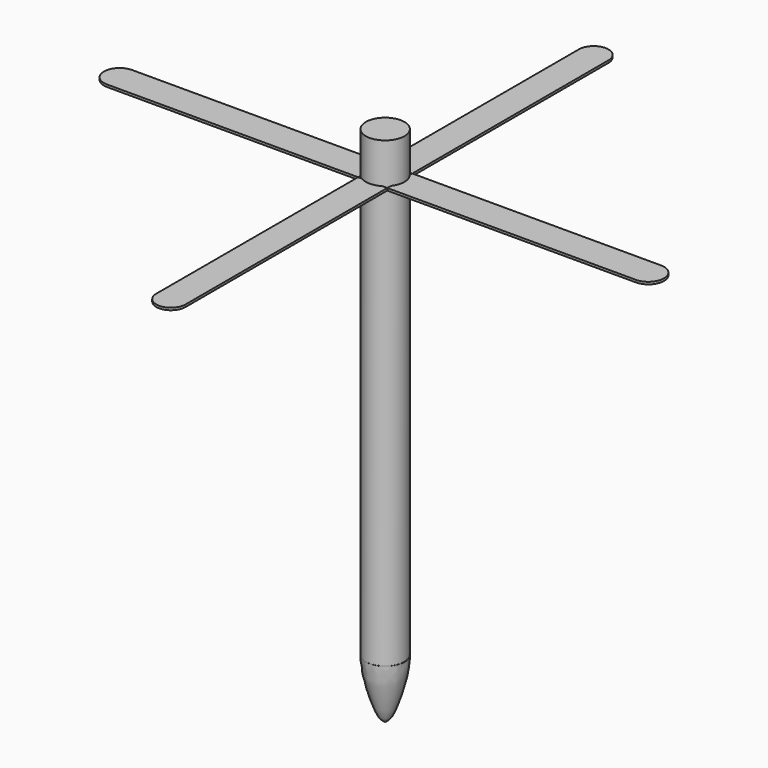
from build123d import *

# Parameters (mm, degrees)
F0_R     = 10.5891149713
F1_DEPTH = 127
F4_DEPTH = 1.27


with BuildPart() as f1:
    # F0 (on Top) → F1 (new body, symmetric)
    with BuildSketch(Plane.XY):
        Circle(F0_R)
    extrude(amount=F1_DEPTH, both=True)


with BuildPart() as f4:
    # F3 (on offset) → F4 (new body)
    with BuildSketch(Plane.XY.offset(104.902)):
        Polygon((-7.8947432339, 0), (-7.8947432339, 8.1851631403), (-145.3974545002, 8.1851631403), (-145.3974545002, -9.0071475133), (-7.654465735, -9.0071475133), (-7.654465735, 0), align=None)
        with BuildLine():
            Line((-145.3974545002, -9.0071475133), (-145.3974545002, 8.1851631403))
            ThreePointArc((-145.3974545002, 8.1851631403), (-153.993609827, -0.4109921865), (-145.3974545002, -9.0071475133))
        make_face()
    extrude(amount=-F4_DEPTH)


with BuildPart() as f4b:
    # F3 (on offset) → F4, piece 2 (new body)
    with BuildSketch(Plane.XY.offset(104.902)):
        Polygon((-0.617519021, 8.1851631403), (0, 8.1851631403), (8.3706863225, 8.1851631403), (8.3706863225, 142.7379101515), (-7.8947432339, 142.7379101515), (-7.8947432339, 8.1851631403), align=None)
        with BuildLine():
            Line((-7.8947432339, 142.7379101515), (8.3706863225, 142.7379101515))
            ThreePointArc((8.3706863225, 142.7379101515), (0.2379715443, 150.8706249297), (-7.8947432339, 142.7379101515))
        make_face()
    extrude(amount=-F4_DEPTH)


with BuildPart() as f4c:
    # F3 (on offset) → F4, piece 3 (new body)
    with BuildSketch(Plane.XY.offset(104.902)):
        Polygon((144.7799354792, 8.1851631403), (8.3706863225, 8.1851631403), (8.3706863225, 0), (8.3706863225, -9.0071475133), (144.7799354792, -9.0071475133), align=None)
        with BuildLine():
            ThreePointArc((144.7799354792, -9.0071475133), (153.376090806, -0.4109921865), (144.7799354792, 8.1851631403))
            Line((144.7799354792, 8.1851631403), (144.7799354792, -9.0071475133))
        make_face()
    extrude(amount=-F4_DEPTH)


with BuildPart() as f4d:
    # F3 (on offset) → F4, piece 4 (new body)
    with BuildSketch(Plane.XY.offset(104.902)):
        Polygon((8.3706863225, -9.0071475133), (0, -9.0071475133), (-0.617519021, -9.0071475133), (-7.654465735, -9.0071475133), (-7.654465735, -147.4282443523), (8.3706863225, -147.4282443523), align=None)
        with BuildLine():
            ThreePointArc((-7.654465735, -147.4282443523), (0.3581102937, -155.440820381), (8.3706863225, -147.4282443523))
            Line((8.3706863225, -147.4282443523), (-7.654465735, -147.4282443523))
        make_face()
    extrude(amount=-F4_DEPTH)


with BuildPart() as f6:
    # F5 (on Front) → F6 (revolve)
    with BuildSketch(Plane.XZ):
        with BuildLine():
            Line((0, -159.4596505165), (-10.6184864417, -127.0246952772))
            add(Edge.make_bspline(
                [(-10.6184864417, -127.0246952772), (-10.6576769925, -136.2831163712), (-4.7716083946, -154.4683316092), (-2.1387403831, -158.1834703684), (0, -159.4596505165)],
                knots=[0, 0, 0, 0, 0.6694131599, 1, 1, 1, 1], degree=3))
        make_face()
        Polygon((0, -159.4596505165), (0, -127.0246952772), (-10.6184864417, -127.0246952772), align=None)
    revolve(axis=Axis((0, 0, -143.2421728969), (0, 0, 1)))


solid = Compound([f1.part, f4.part, f4b.part, f4c.part, f4d.part, f6.part])
